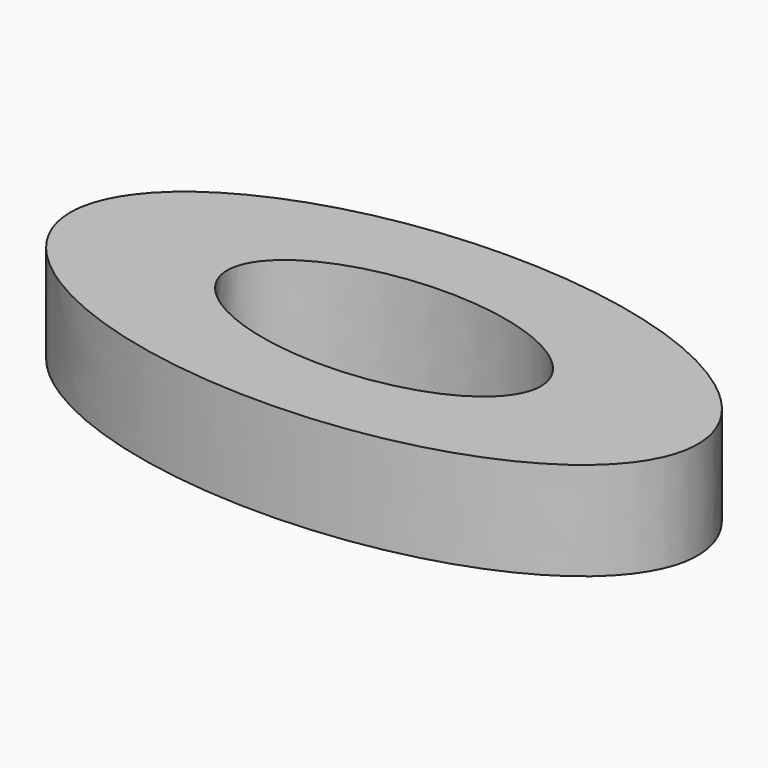
from build123d import *

# Parameters (mm, degrees)
F1_DEPTH = 20


with BuildPart() as f1:
    # F0 (on Top) → F1 (new body)
    with BuildSketch(Plane.XY):
        with BuildLine():
            add(Edge.make_bspline(
                [(-64, 0), (-64, -55.425626), (32, -27.712813), (128, 0), (32, 27.712813), (-64, 55.425626), (-64, 0)],
                knots=[0, 0, 0, 2.094395, 2.094395, 4.18879, 4.18879, 6.283185, 6.283185, 6.283185], degree=2, weights=[1, 0.5, 1, 0.5, 1, 0.5, 1]))
        make_face()
        with BuildLine():
            add(Edge.make_bspline(
                [(-32, 0), (-32, -27.712813), (16, -13.856406), (64, 0), (16, 13.856406), (-32, 27.712813), (-32, 0)],
                knots=[0, 0, 0, 2.094395, 2.094395, 4.18879, 4.18879, 6.283185, 6.283185, 6.283185], degree=2, weights=[1, 0.5, 1, 0.5, 1, 0.5, 1]))
        make_face(mode=Mode.SUBTRACT)
    extrude(amount=F1_DEPTH)


solid = f1.part
